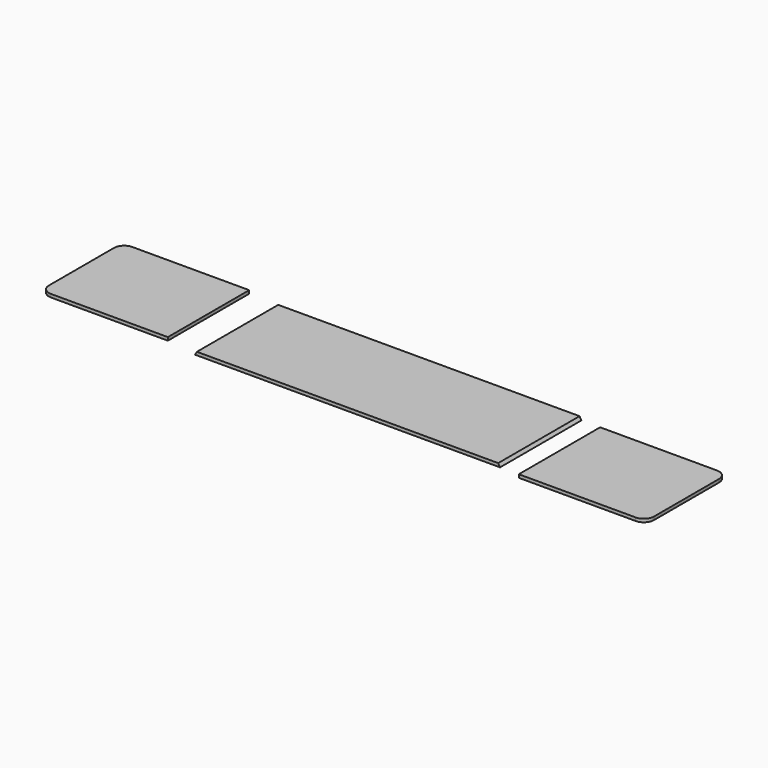
from build123d import *

# Parameters (mm, degrees)
F0_W      = 152.4
F0_H      = 50.8
F1_DEPTH  = 1.5875
F2_W      = 63.5
F2_H      = 50.8
F3_DEPTH  = 1.5875
F5_DEPTH  = 50.801
F6_R      = 5.08
F8_DEPTH  = 50.801
F9_W      = 63.5
F9_H      = 50.8
F10_DEPTH = 1.5875
F11_R     = 5.08


with BuildPart() as f1:
    # F0 (on Top) → F1 (new body)
    with BuildSketch(Plane.XY):
        with Locations((-46.300732, 26.618814)):
            Rectangle(F0_W, F0_H)
    extrude(amount=F1_DEPTH)

    # F4 (on face) → F5 (cut, through all)
    with BuildSketch(Plane.XZ.offset(-1.218814)):
        Polygon((28.982724, 1.5875), (29.899268, 0), (29.899268, 1.5875), align=None)
    extrude(amount=-F5_DEPTH, mode=Mode.SUBTRACT)

    # F7 (on face) → F8 (cut, through all)
    with BuildSketch(Plane.XZ.offset(-1.218814)):
        Polygon((-122.500732, 1.5875), (-122.500732, 0), (-121.584189, 1.5875), align=None)
    extrude(amount=-F8_DEPTH, mode=Mode.SUBTRACT)


with BuildPart() as f3:
    # F2 (on Top) → F3 (new body)
    with BuildSketch(Plane.XY):
        with Locations((72.886802, 24.282538)):
            Rectangle(F2_W, F2_H)
    extrude(amount=F3_DEPTH)

    # F6
    f6_edges = [f3.edges().sort_by_distance(p)[0] for p in [
        (104.636802, -1.117462, 0.79375),
        (104.636802, 49.682538, 0.79375),
    ]]
    fillet(f6_edges, radius=F6_R)


with BuildPart() as f10:
    # F9 (on Top) → F10 (new body)
    with BuildSketch(Plane.XY):
        with Locations((-169.927657, 29.2367)):
            Rectangle(F9_W, F9_H)
    extrude(amount=F10_DEPTH)

    # F11
    f11_edges = [f10.edges().sort_by_distance(p)[0] for p in [
        (-201.677657, 3.8367, 0.79375),
        (-201.677657, 54.6367, 0.79375),
    ]]
    fillet(f11_edges, radius=F11_R)


solid = Compound([f1.part, f3.part, f10.part])
